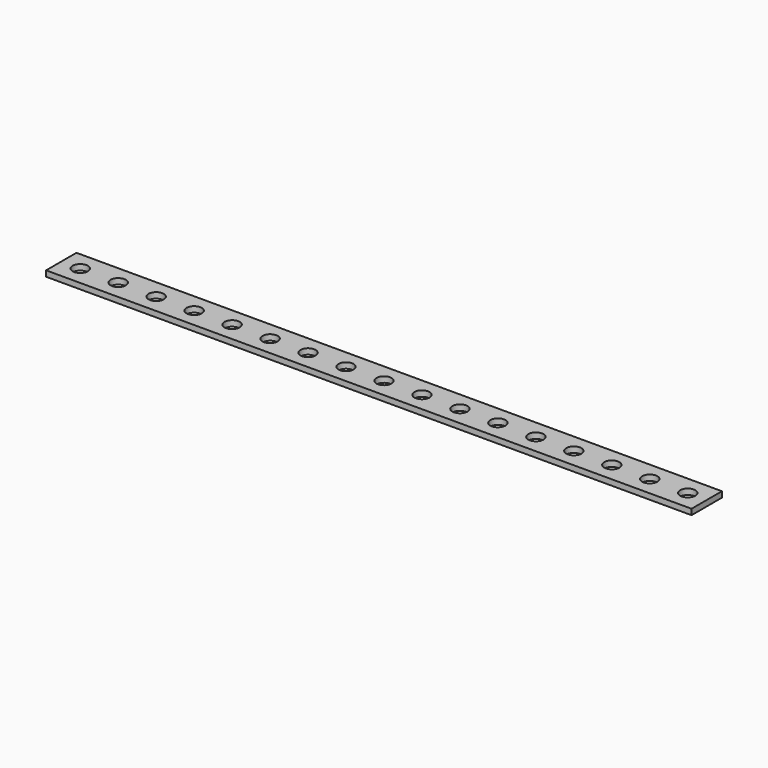
from build123d import *

# Parameters (mm, degrees)
F0_W     = 340
F0_H     = 20
F0_R     = 4
F1_DEPTH = 3


with BuildPart() as f1:
    # F0 (on Top) → F1 (new body)
    with BuildSketch(Plane.XY):
        Rectangle(F0_W, F0_H)
        with Locations((-160, 0)):
            Circle(F0_R, mode=Mode.SUBTRACT)
        with Locations((-140, 0)):
            Circle(F0_R, mode=Mode.SUBTRACT)
        with Locations((-120, 0)):
            Circle(F0_R, mode=Mode.SUBTRACT)
        with Locations((-100, 0)):
            Circle(F0_R, mode=Mode.SUBTRACT)
        with Locations((-80, 0)):
            Circle(F0_R, mode=Mode.SUBTRACT)
        with Locations((-60, 0)):
            Circle(F0_R, mode=Mode.SUBTRACT)
        with Locations((-40, 0)):
            Circle(F0_R, mode=Mode.SUBTRACT)
        with Locations((-20, 0)):
            Circle(F0_R, mode=Mode.SUBTRACT)
        Circle(F0_R, mode=Mode.SUBTRACT)
        with Locations((20, 0)):
            Circle(F0_R, mode=Mode.SUBTRACT)
        with Locations((40, 0)):
            Circle(F0_R, mode=Mode.SUBTRACT)
        with Locations((60, 0)):
            Circle(F0_R, mode=Mode.SUBTRACT)
        with Locations((80, 0)):
            Circle(F0_R, mode=Mode.SUBTRACT)
        with Locations((100, 0)):
            Circle(F0_R, mode=Mode.SUBTRACT)
        with Locations((120, 0)):
            Circle(F0_R, mode=Mode.SUBTRACT)
        with Locations((140, 0)):
            Circle(F0_R, mode=Mode.SUBTRACT)
        with Locations((160, 0)):
            Circle(F0_R, mode=Mode.SUBTRACT)
    extrude(amount=F1_DEPTH)


solid = f1.part
